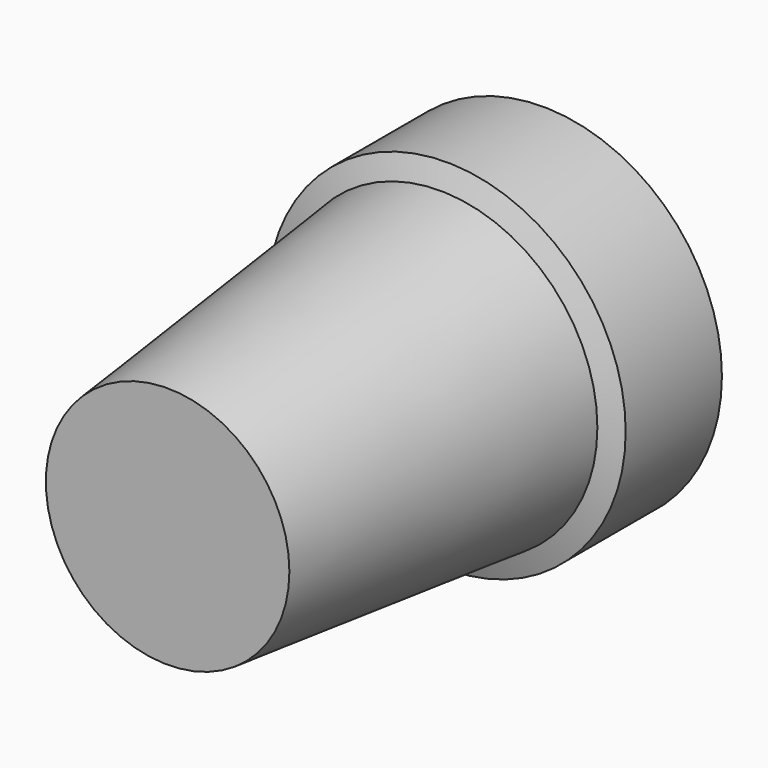
from build123d import *

# Parameters (mm, degrees)
F2_T = -2.5


with BuildPart() as f1:
    # F0 (on Top) → F1 (revolve)
    with BuildSketch(Plane.XY):
        Polygon((29.168965295, 20.9186449647), (0, 20.9186449647), (0, -55.4267726839), (19.8249841153, -55.4267726839), (25.6272411018, 0), (29.168965295, 1.331854861), align=None)
    revolve(axis=Axis((0, 0.3053806722, 0), (0, -1, 0)))

    # F2
    f2_openings = [f1.faces().sort_by_distance(p)[0] for p in [
        (0, 20.918645, 0),
    ]]
    offset(amount=F2_T, openings=f2_openings, kind=Kind.INTERSECTION)


solid = f1.part
